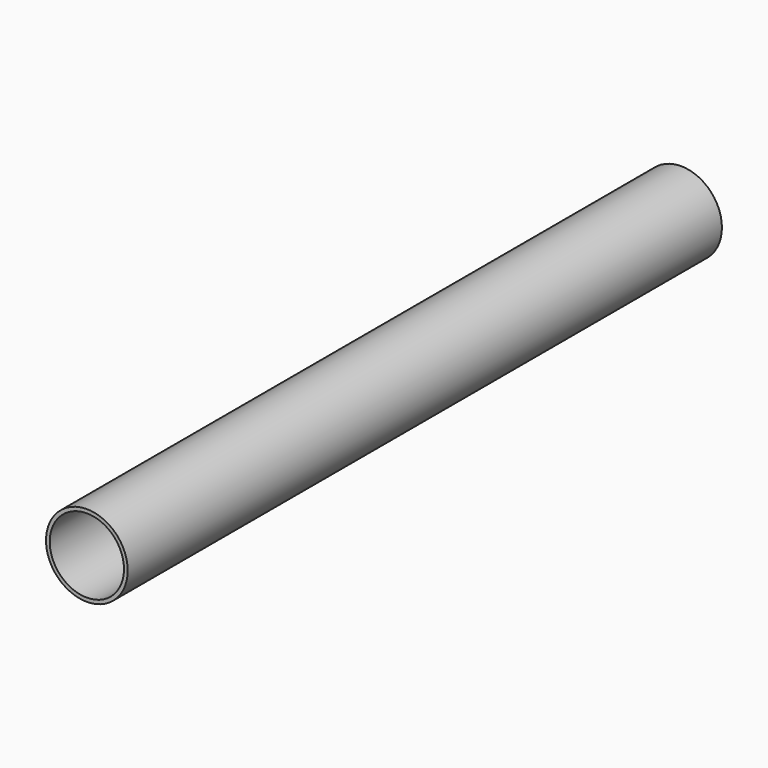
from build123d import *

# Parameters (mm, degrees)
F0_R     = 13.97
F0_R_2   = 12.7
F2_DEPTH = 127


with BuildPart() as f1:
    # F0 (on Front) → F1 (revolve)
    with BuildSketch(Plane.XZ):
        with BuildLine():
            Line((-4.191, 0), (4.191, 0))
            ThreePointArc((4.191, 0), (0, 4.191), (-4.191, 0))
        make_face()
    revolve(axis=Axis((0, 0, 0), (1, 0, 0)))


with BuildPart() as f2:
    # F0 (on Front) → F2 (new body, symmetric)
    with BuildSketch(Plane.XZ):
        Circle(F0_R)
        Circle(F0_R_2, mode=Mode.SUBTRACT)
    extrude(amount=F2_DEPTH, both=True)


solid = Compound([f1.part, f2.part])
